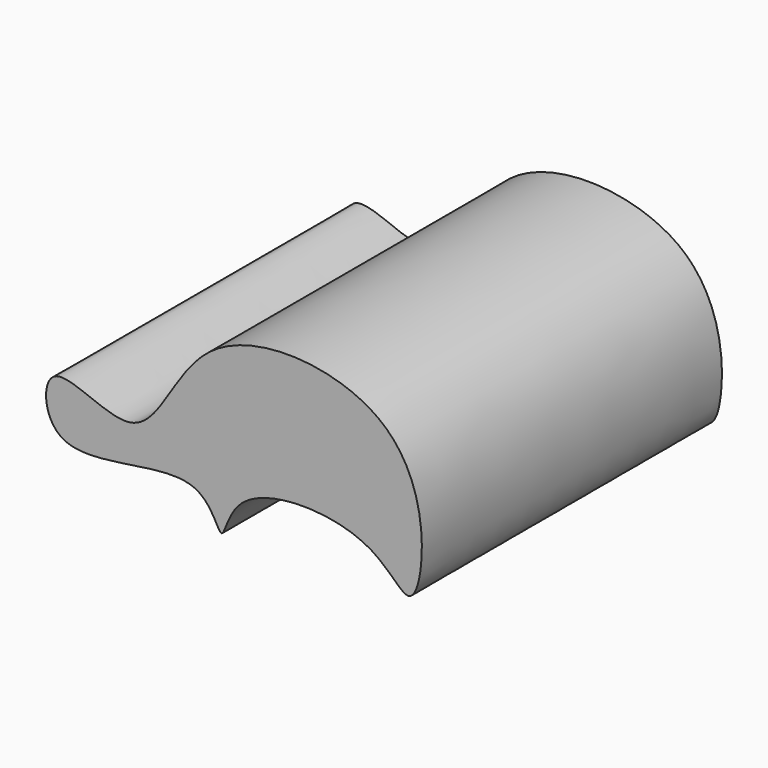
from build123d import *

# Parameters (mm, degrees)
F1_DEPTH = 76.2


with BuildPart() as f1:
    # F0 (on Front) → F1 (new body)
    with BuildSketch(Plane.XZ):
        with BuildLine():
            add(Edge.make_bspline(
                [(5.7561155409, 23.8878782839), (9.3660388105, 22.2409942159), (11.5006765544, 13.2209334502), (13.2240947263, 28.958287674), (41.766774837, 28.7389233424), (49.4324024163, 15.3412028564), (53.1423194241, 26.762182534), (49.4876492611, 53.7550814756), (4.307831753, 57.4294788778), (-2.9551121192, 23.2745578646), (-25.6449424507, 41.0585355888), (-24.4919208328, 16.1834092632), (-0.7356082097, 26.849469326), (5.7561155409, 23.8878782839)],
                knots=[0, 0, 0, 0, 0.0645769803, 0.1267279769, 0.2391188395, 0.3121734403, 0.3716979801, 0.4805153355, 0.6123479588, 0.7227476314, 0.8116625826, 0.883871239, 1, 1, 1, 1], degree=3))
        make_face()
    extrude(amount=F1_DEPTH)


solid = f1.part
